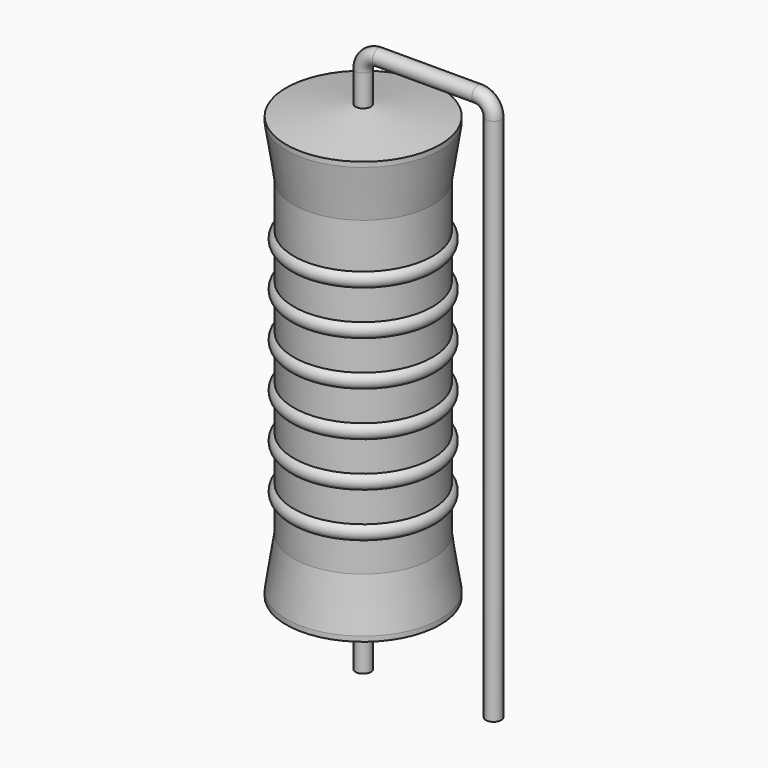
from build123d import *

# Parameters (mm, degrees)
SKETCH_R = 0.45


with BuildPart() as revolution:
    # Sketch002 → Revolution (revolve)
    with BuildSketch(Plane.XZ):
        Polygon((0, 0.1), (0, 26.1), (0.3375, 26.1), (4.5, 25.45), (4.5, 25.1575), (4.05, 22.2), (4.05, 4), (4.5, 1.0425), (4.5, 0.75), (0.3375, 0.1), align=None)
    revolve(axis=Axis((0, 0, 0), (0, 0, 1)))


with BuildPart() as sweep_body:
    # Sweep: sweep along a path in Sketch001
    with BuildLine(Plane.XZ) as sweep_path:
        Line((0, -3), (0, 27.9))
        ThreePointArc((0, 27.9), (0.263601, 28.536393), (0.899991, 28.8))
        Line((0.899991, 28.8), (6.72, 28.8))
        ThreePointArc((6.72, 28.8), (7.356396, 28.536396), (7.62, 27.9))
        Line((7.62, 27.9), (7.62, -3))
    # Sketch → Sweep (sweep)
    with BuildSketch(Plane.XY.offset(-2)):
        Circle(SKETCH_R)
    sweep(path=sweep_path.line)


with BuildPart() as obj1:
    # Sketch003 → Revolution001 (revolve)
    with BuildSketch(Plane.XZ):
        with BuildLine():
            Line((3.6, 21.3), (3.6, 4))
            Line((3.6, 4), (3.87, 4))
            Line((3.87, 4), (3.87, 5.7))
            ThreePointArc((3.87, 5.7), (4.32, 6.15), (3.87, 6.6))
            Line((3.87, 6.6), (3.87, 8.3))
            ThreePointArc((3.87, 8.3), (4.32, 8.75), (3.87, 9.2))
            Line((3.87, 9.2), (3.87, 10.9))
            ThreePointArc((3.87, 10.9), (4.32, 11.35), (3.87, 11.8))
            Line((3.87, 11.8), (3.87, 13.5))
            ThreePointArc((3.87, 13.5), (4.32, 13.95), (3.87, 14.4))
            Line((3.87, 14.4), (3.87, 16.1))
            ThreePointArc((3.87, 16.1), (4.32, 16.55), (3.87, 17))
            Line((3.87, 17), (3.87, 18.7))
            ThreePointArc((3.87, 18.7), (4.32, 19.15), (3.87, 19.6))
            Line((3.87, 21.3), (3.87, 19.6))
            Line((3.6, 21.3), (3.87, 21.3))
        make_face()
    revolve(axis=Axis((0, 0, 0), (0, 0, 1)))

    # obj1: union Revolution, Sweep body
    add(revolution.part)
    add(sweep_body.part)


solid = obj1.part
